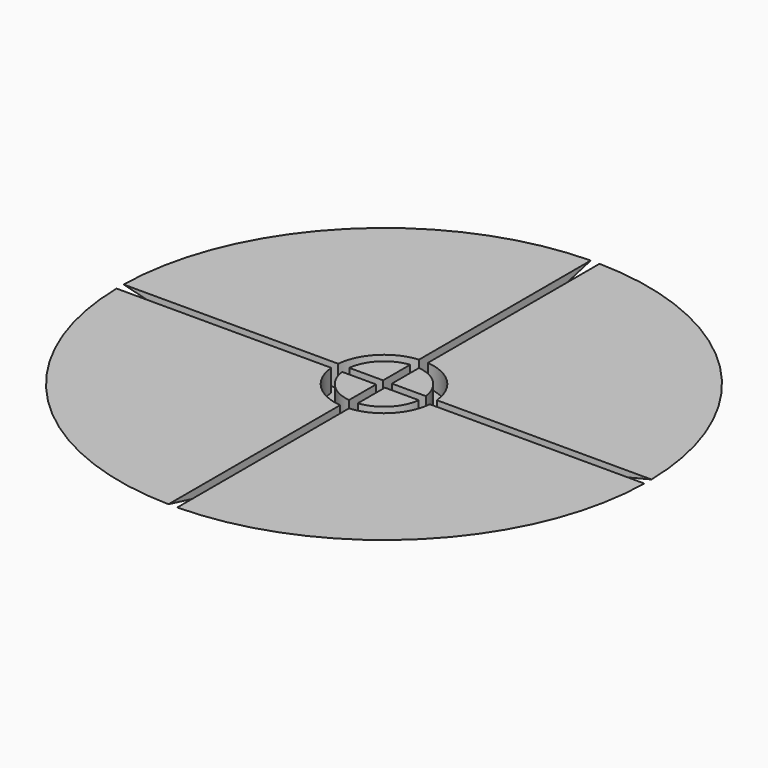
from build123d import *

# Parameters (mm, degrees)
F2_R     = 22.5
F2_R_2   = 17.5
F3_DEPTH = 10
F4_W     = 4
F4_H     = 4
F5_DEPTH = 10


with BuildPart() as f1:
    # F0 (on Front) → F1 (revolve)
    with BuildSketch(Plane.XZ):
        Polygon((0, 20), (0, 0), (40, 0), (120, 20), align=None)
    revolve(axis=Axis((0, 0, 10), (0, 0, -1)))

    # F2 (on face) → F3 (cut)
    with BuildSketch(Plane.XY.offset(20)):
        Circle(F2_R)
        Circle(F2_R_2, mode=Mode.SUBTRACT)
    extrude(amount=-F3_DEPTH, mode=Mode.SUBTRACT)

    # F4 (on face) → F5 (cut)
    with BuildSketch(Plane.XY.offset(20)):
        with BuildLine():
            Line((2, 2), (2, 119.9833321758))
            ThreePointArc((2, 119.9833321758), (0, 120), (-2, 119.9833321758))
            Line((-2, 119.9833321758), (-2, 2))
            Line((-2, 2), (2, 2))
        make_face()
        with BuildLine():
            Line((119.9833321758, 2), (2, 2))
            Line((2, 2), (2, -2))
            Line((2, -2), (119.9833321758, -2))
            ThreePointArc((119.9833321758, -2), (120, 0), (119.9833321758, 2))
        make_face()
        Rectangle(F4_W, F4_H)
        with BuildLine():
            Line((2, -119.9833321758), (2, -2))
            Line((2, -2), (-2, -2))
            Line((-2, -2), (-2, -119.9833321758))
            ThreePointArc((-2, -119.9833321758), (0, -120), (2, -119.9833321758))
        make_face()
        with BuildLine():
            Line((-2, -2), (-2, 2))
            Line((-2, 2), (-119.9833321758, 2))
            ThreePointArc((-119.9833321758, 2), (-120, 0), (-119.9833321758, -2))
            Line((-119.9833321758, -2), (-2, -2))
        make_face()
    extrude(amount=-F5_DEPTH, mode=Mode.SUBTRACT)


solid = f1.part
